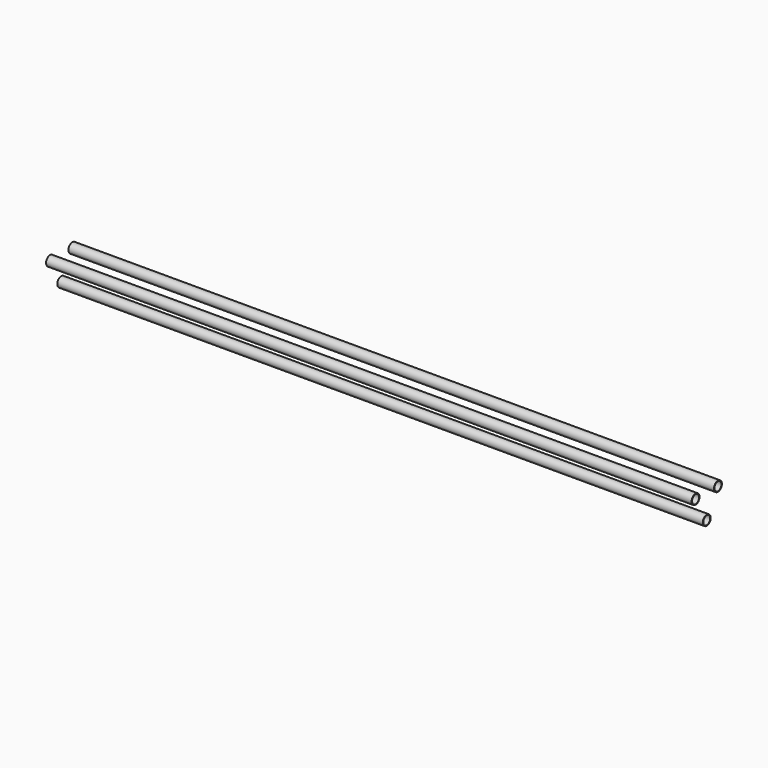
from build123d import *

# Parameters (mm, degrees)
F0_R     = 8
F0_R_2   = 7
F1_DEPTH = 1039.23


with BuildPart() as f1:
    # F0 (on Right) → F1 (new body)
    with BuildSketch(Plane.YZ):
        Circle(F0_R)
        Circle(F0_R_2, mode=Mode.SUBTRACT)
        with Locations((45, 0)):
            Circle(F0_R)
        with Locations((45, 0)):
            Circle(F0_R_2, mode=Mode.SUBTRACT)
        with Locations((22.5, -38.971143)):
            Circle(F0_R)
        with Locations((22.5, -38.971143)):
            Circle(F0_R_2, mode=Mode.SUBTRACT)
    extrude(amount=F1_DEPTH)


solid = f1.part
